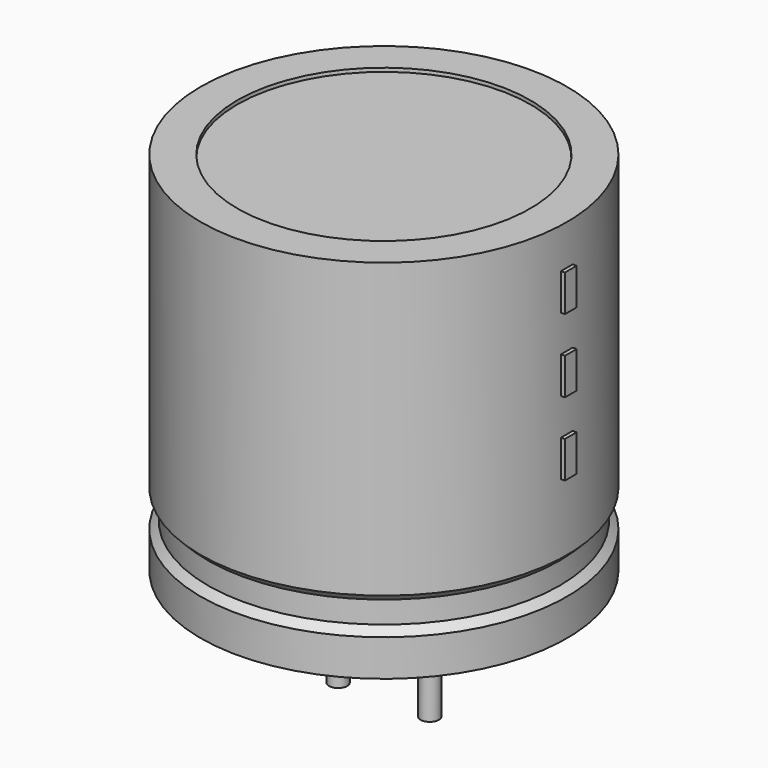
from build123d import *

# Parameters (mm, degrees)
SKETCH002_W  = 4.6
SKETCH002_H  = 9.8
SKETCH003_R  = 0.25
PAD_DEPTH    = 4
SKETCH004_W  = 0.4
SKETCH004_H  = 1
PAD001_DEPTH = 5.1


with BuildPart() as revolution:
    # Sketch → Revolution (revolve)
    with BuildSketch(Plane.XZ):
        Polygon((-3.75, 0.1), (-3.75, 1.1), (-3.55, 1.3), (-3.55, 1.9), (-3.75, 2.1), (-3.75, 10.1), (-2.75, 10.1), (-2.75, 0.1), align=None)
    revolve(axis=Axis((1.25, 0, 7.548619), (0, 0, -1)))


with BuildPart() as revolution001:
    # Sketch002 → Revolution001 (revolve)
    with BuildSketch(Plane.XZ):
        with Locations((-1.05, 5.1)):
            Rectangle(SKETCH002_W, SKETCH002_H)
    revolve(axis=Axis((1.25, 0, 4.680116), (0, 0, -1)))


with BuildPart() as pad:
    # Sketch003 → Pad (new body)
    with BuildSketch(Plane.XY.offset(1)):
        Circle(SKETCH003_R)
        with Locations((2.5, 0)):
            Circle(SKETCH003_R)
    extrude(amount=-PAD_DEPTH)


with BuildPart() as pad001:
    # Sketch004 → Pad001 (new body)
    with BuildSketch(Plane.YZ.offset(1.25)):
        with Locations((0, 4.5)):
            Rectangle(SKETCH004_W, SKETCH004_H)
        with Locations((0, 6.5)):
            Rectangle(SKETCH004_W, SKETCH004_H)
        with Locations((0, 8.5)):
            Rectangle(SKETCH004_W, SKETCH004_H)
    extrude(amount=PAD001_DEPTH)


solid = Compound([revolution.part, revolution001.part, pad.part, pad001.part])
